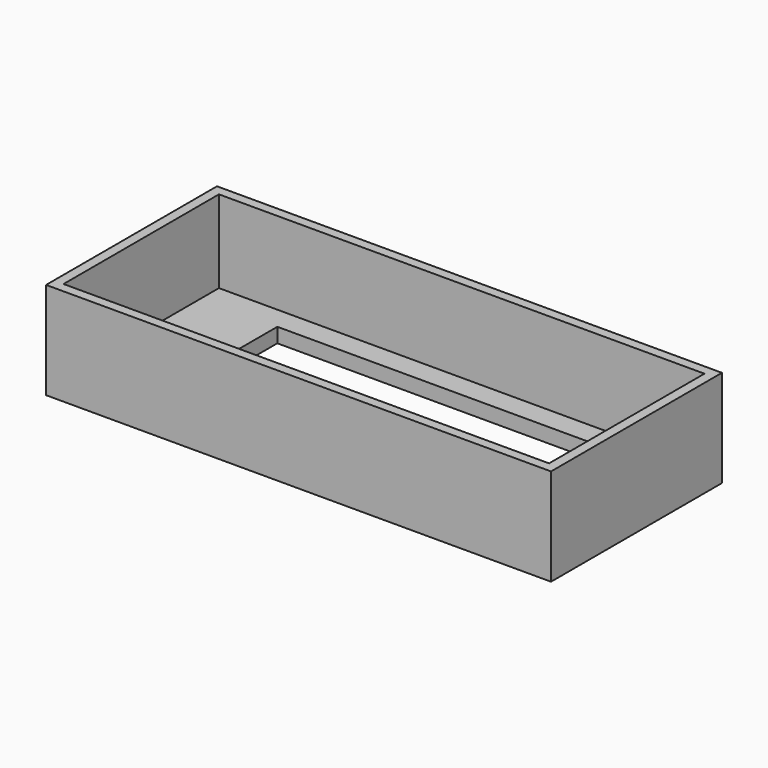
from build123d import *

# Parameters (mm, degrees)
SKETCH_W        = 104
SKETCH_H        = 44
PAD_DEPTH       = 20
SKETCH001_W     = 100
SKETCH001_H     = 40
POCKET_DEPTH    = 17
SKETCH002_W     = 68.5
SKETCH002_H     = 30.7
POCKET001_DEPTH = 3
SKETCH003_R     = 1
POCKET002_DEPTH = 2


with BuildPart() as part:
    # Sketch → Pad (new body)
    with BuildSketch(Plane.XY):
        Rectangle(SKETCH_W, SKETCH_H)
    extrude(amount=PAD_DEPTH)

    # Sketch001 (on Face6 of Pad) → Pocket (cut)
    with BuildSketch(Plane.XY.offset(20)):
        Rectangle(SKETCH001_W, SKETCH001_H)
    extrude(amount=-POCKET_DEPTH, mode=Mode.SUBTRACT)

    # Sketch002 (on Face11 of Pocket) → Pocket001 (cut)
    with BuildSketch(Plane.XY.offset(3)):
        Rectangle(SKETCH002_W, SKETCH002_H)
    extrude(amount=-POCKET001_DEPTH, mode=Mode.SUBTRACT)

    # Sketch003 (on Face15 of Pocket001) → Pocket002 (cut)
    with BuildSketch(Plane.XY.offset(3)):
        with Locations((47.5, 17.5)):
            Circle(SKETCH003_R)
        with Locations((-47.5, -17.5)):
            Circle(SKETCH003_R)
    extrude(amount=-POCKET002_DEPTH, mode=Mode.SUBTRACT)


solid = part.part
